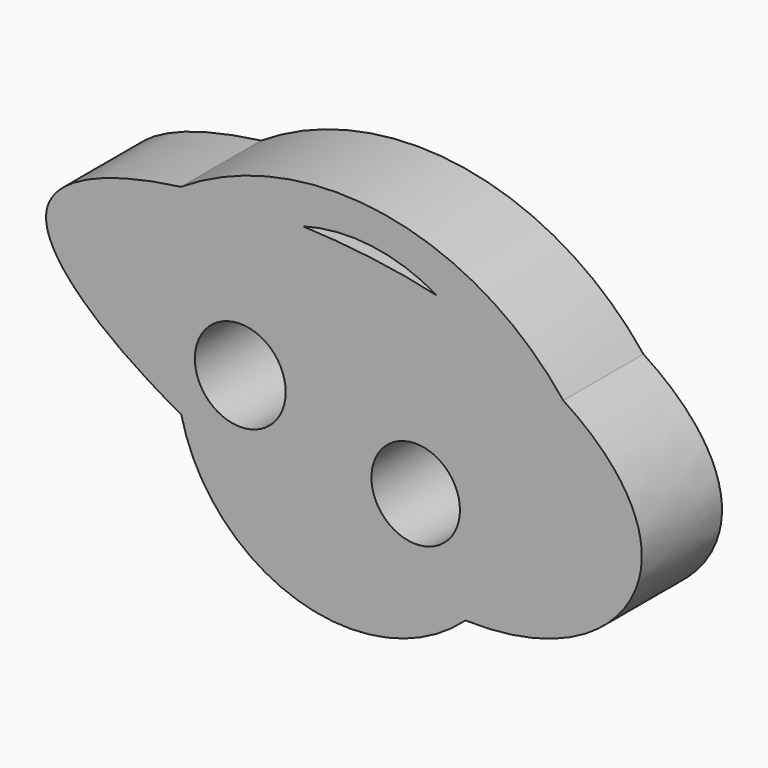
from build123d import *

# Parameters (mm, degrees)
F0_R     = 11.5110265847
F0_R_2   = 11.2157876958
F1_DEPTH = 25.4
F2_DEPTH = 25.4


with BuildPart() as f1:
    # F0 (on Front) → F1 (new body)
    with BuildSketch(Plane.XZ):
        with BuildLine():
            add(Edge.make_bspline(
                [(-42.6191106401, -9.9153485832), (-20.6350689987, -21.9972569119), (7.738026744, -31.8239785263), (29.3943516136, -32.4141145567)],
                knots=[0.8430854965, 0.8430854965, 0.8430854965, 0.8430854965, 1, 1, 1, 1], degree=3))
            ThreePointArc((29.3943516136, -32.4141145567), (40.0057537744, -17.7268833761), (43.7573162944, 0))
            ThreePointArc((43.7573162944, 0), (37.9839654581, 21.7237450123), (22.1873875452, 37.715017741))
            add(Edge.make_bspline(
                [(22.1873875452, 37.715017741), (11.6721202081, 40.2099582819), (-0.1429108616, 41.6665900381), (-11.8526616126, 42.1214570259)],
                knots=[0.4240545667, 0.4240545667, 0.4240545667, 0.4240545667, 0.4970480989, 0.4970480989, 0.4970480989, 0.4970480989], degree=3))
            ThreePointArc((-11.8526616126, 42.1214570259), (-37.6663082553, 22.2699787089), (-42.6191106402, -9.9153485832))
        make_face()
        with Locations((-27.6805255562, 3.7134094164)):
            Circle(F0_R, mode=Mode.SUBTRACT)
        with Locations((16.7762394994, -8.2583986223)):
            Circle(F0_R_2, mode=Mode.SUBTRACT)
        with BuildLine():
            add(Edge.make_bspline(
                [(-42.6191106401, -9.9153485832), (-20.6350689987, -21.9972569119), (7.738026744, -31.8239785263), (29.3943516136, -32.4141145567)],
                knots=[0.8430854965, 0.8430854965, 0.8430854965, 0.8430854965, 1, 1, 1, 1], degree=3))
            ThreePointArc((29.3943516136, -32.4141145567), (40.0057537744, -17.7268833761), (43.7573162944, 0))
            ThreePointArc((43.7573162944, 0), (37.9839654581, 21.7237450123), (22.1873875452, 37.715017741))
            add(Edge.make_bspline(
                [(22.1873875452, 37.715017741), (11.6721202081, 40.2099582819), (-0.1429108616, 41.6665900381), (-11.8526616126, 42.1214570259)],
                knots=[0.4240545667, 0.4240545667, 0.4240545667, 0.4240545667, 0.4970480989, 0.4970480989, 0.4970480989, 0.4970480989], degree=3))
            ThreePointArc((-11.8526616126, 42.1214570259), (-37.6663082553, 22.2699787089), (-42.6191106402, -9.9153485832))
        make_face()
        with Locations((-27.6805255562, 3.7134094164)):
            Circle(F0_R, mode=Mode.SUBTRACT)
        with Locations((16.7762394994, -8.2583986223)):
            Circle(F0_R_2, mode=Mode.SUBTRACT)
        with BuildLine():
            add(Edge.make_bspline(
                [(-42.7234657978, 40.8730333774), (-61.8148502648, 38.3753901199), (-91.4828084934, 26.3670705011), (-62.8281013178, 1.1910337993), (-42.6191106401, -9.9153485832)],
                knots=[0.5639979758, 0.5639979758, 0.5639979758, 0.5639979758, 0.6988406943, 0.8430854965, 0.8430854965, 0.8430854965, 0.8430854965], degree=3))
            ThreePointArc((-42.6191106402, -9.9153485832), (-37.6663082553, 22.2699787089), (-11.8526616126, 42.1214570259))
            add(Edge.make_bspline(
                [(-11.8526616126, 42.1214570259), (-22.5928785611, 42.5386623307), (-33.2445272732, 42.1131219072), (-42.7234657978, 40.8730333774)],
                knots=[0.4970480989, 0.4970480989, 0.4970480989, 0.4970480989, 0.5639979758, 0.5639979758, 0.5639979758, 0.5639979758], degree=3))
        make_face()
        with BuildLine():
            ThreePointArc((43.7573162944, 0), (40.0057537744, -17.7268833761), (29.3943516136, -32.4141145567))
            add(Edge.make_bspline(
                [(29.3943516136, -32.4141145567), (56.9711731435, -33.1655844432), (84.9977641322, -9.2707192189), (67.106763708, 16.3997179852), (54.1769252073, 24.7250533856)],
                knots=[0, 0, 0, 0, 0.1998124467, 0.3356238703, 0.3356238703, 0.3356238703, 0.3356238703], degree=3))
            add(Edge.make_bspline(
                [(54.1769252073, 24.7250533856), (45.7579380993, 30.1459170261), (34.9264945205, 34.6924303516), (22.1873875452, 37.715017741)],
                knots=[0.3356238703, 0.3356238703, 0.3356238703, 0.3356238703, 0.4240545667, 0.4240545667, 0.4240545667, 0.4240545667], degree=3))
            ThreePointArc((22.1873875452, 37.715017741), (37.9839654581, 21.7237450123), (43.7573162944, 0))
        make_face()
    extrude(amount=F1_DEPTH)

    # F0 (on Front) → F2 (join)
    with BuildSketch(Plane.XZ):
        with BuildLine():
            add(Edge.make_bspline(
                [(-42.6191106401, -9.9153485832), (-20.6350689987, -21.9972569119), (7.738026744, -31.8239785263), (29.3943516136, -32.4141145567)],
                knots=[0.8430854965, 0.8430854965, 0.8430854965, 0.8430854965, 1, 1, 1, 1], degree=3))
            ThreePointArc((29.3943516136, -32.4141145567), (40.0057537744, -17.7268833761), (43.7573162944, 0))
            ThreePointArc((43.7573162944, 0), (37.9839654581, 21.7237450123), (22.1873875452, 37.715017741))
            add(Edge.make_bspline(
                [(22.1873875452, 37.715017741), (11.6721202081, 40.2099582819), (-0.1429108616, 41.6665900381), (-11.8526616126, 42.1214570259)],
                knots=[0.4240545667, 0.4240545667, 0.4240545667, 0.4240545667, 0.4970480989, 0.4970480989, 0.4970480989, 0.4970480989], degree=3))
            ThreePointArc((-11.8526616126, 42.1214570259), (-37.6663082553, 22.2699787089), (-42.6191106402, -9.9153485832))
        make_face()
        with Locations((-27.6805255562, 3.7134094164)):
            Circle(F0_R, mode=Mode.SUBTRACT)
        with Locations((16.7762394994, -8.2583986223)):
            Circle(F0_R_2, mode=Mode.SUBTRACT)
        with BuildLine():
            ThreePointArc((43.7573162944, 0), (40.0057537744, -17.7268833761), (29.3943516136, -32.4141145567))
            add(Edge.make_bspline(
                [(29.3943516136, -32.4141145567), (56.9711731435, -33.1655844432), (84.9977641322, -9.2707192189), (67.106763708, 16.3997179852), (54.1769252073, 24.7250533856)],
                knots=[0, 0, 0, 0, 0.1998124467, 0.3356238703, 0.3356238703, 0.3356238703, 0.3356238703], degree=3))
            add(Edge.make_bspline(
                [(54.1769252073, 24.7250533856), (45.7579380993, 30.1459170261), (34.9264945205, 34.6924303516), (22.1873875452, 37.715017741)],
                knots=[0.3356238703, 0.3356238703, 0.3356238703, 0.3356238703, 0.4240545667, 0.4240545667, 0.4240545667, 0.4240545667], degree=3))
            ThreePointArc((22.1873875452, 37.715017741), (37.9839654581, 21.7237450123), (43.7573162944, 0))
        make_face()
        with BuildLine():
            ThreePointArc((-42.6191106402, -9.9153485832), (-13.0488382782, -41.7663806054), (29.3943516136, -32.4141145567))
            add(Edge.make_bspline(
                [(-42.6191106401, -9.9153485832), (-20.6350689987, -21.9972569119), (7.738026744, -31.8239785263), (29.3943516136, -32.4141145567)],
                knots=[0.8430854965, 0.8430854965, 0.8430854965, 0.8430854965, 1, 1, 1, 1], degree=3))
        make_face()
        with BuildLine():
            add(Edge.make_bspline(
                [(-42.7234657978, 40.8730333774), (-61.8148502648, 38.3753901199), (-91.4828084934, 26.3670705011), (-62.8281013178, 1.1910337993), (-42.6191106401, -9.9153485832)],
                knots=[0.5639979758, 0.5639979758, 0.5639979758, 0.5639979758, 0.6988406943, 0.8430854965, 0.8430854965, 0.8430854965, 0.8430854965], degree=3))
            ThreePointArc((-42.6191106402, -9.9153485832), (-37.6663082553, 22.2699787089), (-11.8526616126, 42.1214570259))
            add(Edge.make_bspline(
                [(-11.8526616126, 42.1214570259), (-22.5928785611, 42.5386623307), (-33.2445272732, 42.1131219072), (-42.7234657978, 40.8730333774)],
                knots=[0.4970480989, 0.4970480989, 0.4970480989, 0.4970480989, 0.5639979758, 0.5639979758, 0.5639979758, 0.5639979758], degree=3))
        make_face()
        with BuildLine():
            add(Edge.make_bspline(
                [(54.1769252073, 24.7250533856), (45.7579380993, 30.1459170261), (34.9264945205, 34.6924303516), (22.1873875452, 37.715017741)],
                knots=[0.3356238703, 0.3356238703, 0.3356238703, 0.3356238703, 0.4240545667, 0.4240545667, 0.4240545667, 0.4240545667], degree=3))
            ThreePointArc((54.1769252073, 24.7250533856), (8.8421199016, 51.4937982895), (-42.7234657978, 40.8730333774))
            add(Edge.make_bspline(
                [(-11.8526616126, 42.1214570259), (-22.5928785611, 42.5386623307), (-33.2445272732, 42.1131219072), (-42.7234657978, 40.8730333774)],
                knots=[0.4970480989, 0.4970480989, 0.4970480989, 0.4970480989, 0.5639979758, 0.5639979758, 0.5639979758, 0.5639979758], degree=3))
            ThreePointArc((-11.8526616126, 42.1214570259), (5.6174564367, 43.3952406661), (22.1873875452, 37.715017741))
        make_face()
    extrude(amount=F2_DEPTH)


solid = f1.part
